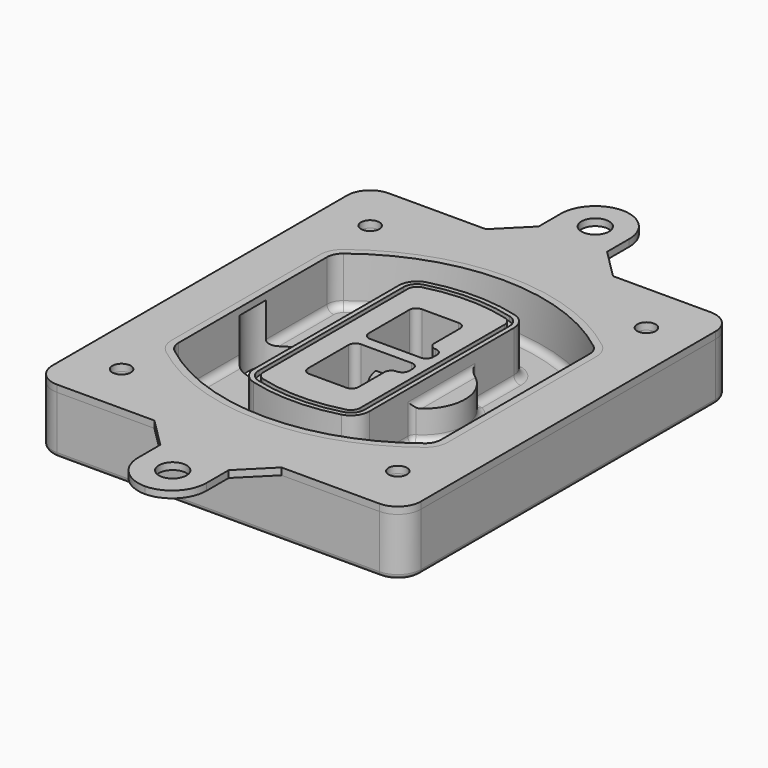
from build123d import *

# Parameters (mm, degrees)
F0_R      = 4
F1_DEPTH  = 25
F2_DEPTH  = 3
F3_DEPTH  = 18
F5_DEPTH  = 21
F6_DEPTH  = 2
F8_DEPTH  = 20
F9_DEPTH  = 16
F10_DEPTH = 25
F7_R      = 6
F7_R_2    = 4
F11_DEPTH = 6
F13_DEPTH = 9
F14_R     = 3
F15_R     = 2
F16_R     = 6
F16_R_2   = 4
F17_DEPTH = 3


with BuildPart() as f1:
    # F0 (on Top) → F1 (new body)
    with BuildSketch(Plane.XY):
        with BuildLine():
            ThreePointArc((-80, -80), (-77.0710678119, -87.0710678119), (-70, -90))
            Line((-70, -90), (70, -90))
            ThreePointArc((70, -90), (77.0710678119, -87.0710678119), (80, -80))
            Line((80, -80), (80, 80))
            ThreePointArc((80, 80), (77.0710678119, 87.0710678119), (70, 90))
            Line((70, 90), (-70, 90))
            ThreePointArc((-70, 90), (-77.0710678119, 87.0710678119), (-80, 80))
            Line((-80, 80), (-80, -80))
        make_face()
        with Locations((-60, -67.5)):
            Circle(F0_R, mode=Mode.SUBTRACT)
        with Locations((60, -67.5)):
            Circle(F0_R, mode=Mode.SUBTRACT)
        with Locations((-60, 67.5)):
            Circle(F0_R, mode=Mode.SUBTRACT)
        with BuildLine():
            ThreePointArc((-64, 40.2934422872), (-62.5820384798, 46.4328484224), (-58.6153846154, 51.3286200352))
            ThreePointArc((-58.6153846154, 51.3286200352), (0, 71.5), (58.6153846154, 51.3286200352))
            ThreePointArc((58.6153846154, 51.3286200352), (62.5820384798, 46.4328484224), (64, 40.2934422872))
            Line((64, 40.2934422872), (64, -40.2934422872))
            ThreePointArc((64, -40.2934422872), (62.5820384798, -46.4328484224), (58.6153846154, -51.3286200352))
            ThreePointArc((58.6153846154, -51.3286200352), (0, -71.5), (-58.6153846154, -51.3286200352))
            ThreePointArc((-58.6153846154, -51.3286200352), (-62.5820384798, -46.4328484224), (-64, -40.2934422872))
            Line((-64, -40.2934422872), (-64, 40.2934422872))
        make_face(mode=Mode.SUBTRACT)
        with Locations((60, 67.5)):
            Circle(F0_R, mode=Mode.SUBTRACT)
        with BuildLine():
            ThreePointArc((58.6153846154, 51.3286200352), (0, 71.5), (-58.6153846154, 51.3286200352))
            ThreePointArc((-58.6153846154, 51.3286200352), (-62.5820384798, 46.4328484224), (-64, 40.2934422872))
            Line((-64, 40.2934422872), (-64, -40.2934422872))
            ThreePointArc((-64, -40.2934422872), (-62.5820384798, -46.4328484224), (-58.6153846154, -51.3286200352))
            ThreePointArc((-58.6153846154, -51.3286200352), (0, -71.5), (58.6153846154, -51.3286200352))
            ThreePointArc((58.6153846154, -51.3286200352), (62.5820384798, -46.4328484224), (64, -40.2934422872))
            Line((64, -40.2934422872), (64, 40.2934422872))
            ThreePointArc((64, 40.2934422872), (62.5820384798, 46.4328484224), (58.6153846154, 51.3286200352))
        make_face()
        with BuildLine():
            Line((-60, -40.2934422872), (-60, 40.2934422872))
            ThreePointArc((-60, 40.2934422872), (-58.9871703427, 44.6787323838), (-56.1538461538, 48.1757121072))
            ThreePointArc((-56.1538461538, 48.1757121072), (0, 67.5), (56.1538461538, 48.1757121072))
            ThreePointArc((56.1538461538, 48.1757121072), (58.9871703427, 44.6787323838), (60, 40.2934422872))
            Line((60, 40.2934422872), (60, -40.2934422872))
            ThreePointArc((60, -40.2934422872), (58.9871703427, -44.6787323838), (56.1538461538, -48.1757121072))
            ThreePointArc((56.1538461538, -48.1757121072), (0, -67.5), (-56.1538461538, -48.1757121072))
            ThreePointArc((-56.1538461538, -48.1757121072), (-58.9871703427, -44.6787323838), (-60, -40.2934422872))
        make_face(mode=Mode.SUBTRACT)
        with BuildLine():
            ThreePointArc((-56.1538461538, 48.1757121072), (-58.9871703427, 44.6787323838), (-60, 40.2934422872))
            Line((-60, 40.2934422872), (-60, -40.2934422872))
            ThreePointArc((-60, -40.2934422872), (-58.9871703427, -44.6787323838), (-56.1538461538, -48.1757121072))
            ThreePointArc((-56.1538461538, -48.1757121072), (0, -67.5), (56.1538461538, -48.1757121072))
            ThreePointArc((56.1538461538, -48.1757121072), (58.9871703427, -44.6787323838), (60, -40.2934422872))
            Line((60, -40.2934422872), (60, 40.2934422872))
            ThreePointArc((60, 40.2934422872), (58.9871703427, 44.6787323838), (56.1538461538, 48.1757121072))
            ThreePointArc((56.1538461538, 48.1757121072), (0, 67.5), (-56.1538461538, 48.1757121072))
        make_face()
        with BuildLine():
            ThreePointArc((54.3076923077, 45.8110311612), (56.2910192399, 43.3631453548), (57, 40.2934422872))
            Line((57, 40.2934422872), (57, -40.2934422872))
            ThreePointArc((57, -40.2934422872), (56.2910192399, -43.3631453548), (54.3076923077, -45.8110311612))
            ThreePointArc((54.3076923077, -45.8110311612), (0, -64.5), (-54.3076923077, -45.8110311612))
            ThreePointArc((-54.3076923077, -45.8110311612), (-56.2910192399, -43.3631453548), (-57, -40.2934422872))
            Line((-57, -40.2934422872), (-57, 40.2934422872))
            ThreePointArc((-57, 40.2934422872), (-56.2910192399, 43.3631453548), (-54.3076923077, 45.8110311612))
            ThreePointArc((-54.3076923077, 45.8110311612), (0, 64.5), (54.3076923077, 45.8110311612))
        make_face(mode=Mode.SUBTRACT)
        with BuildLine():
            Line((57, -40.2934422872), (57, 40.2934422872))
            ThreePointArc((57, 40.2934422872), (56.2910192399, 43.3631453548), (54.3076923077, 45.8110311612))
            ThreePointArc((54.3076923077, 45.8110311612), (0, 64.5), (-54.3076923077, 45.8110311612))
            ThreePointArc((-54.3076923077, 45.8110311612), (-56.2910192399, 43.3631453548), (-57, 40.2934422872))
            Line((-57, 40.2934422872), (-57, -40.2934422872))
            ThreePointArc((-57, -40.2934422872), (-56.2910192399, -43.3631453548), (-54.3076923077, -45.8110311612))
            ThreePointArc((-54.3076923077, -45.8110311612), (0, -64.5), (54.3076923077, -45.8110311612))
            ThreePointArc((54.3076923077, -45.8110311612), (56.2910192399, -43.3631453548), (57, -40.2934422872))
        make_face()
    extrude(amount=-F1_DEPTH)

    # F0 (on Top) → F2 (join)
    with BuildSketch(Plane.XY):
        with BuildLine():
            ThreePointArc((-56.1538461538, 48.1757121072), (-58.9871703427, 44.6787323838), (-60, 40.2934422872))
            Line((-60, 40.2934422872), (-60, -40.2934422872))
            ThreePointArc((-60, -40.2934422872), (-58.9871703427, -44.6787323838), (-56.1538461538, -48.1757121072))
            ThreePointArc((-56.1538461538, -48.1757121072), (0, -67.5), (56.1538461538, -48.1757121072))
            ThreePointArc((56.1538461538, -48.1757121072), (58.9871703427, -44.6787323838), (60, -40.2934422872))
            Line((60, -40.2934422872), (60, 40.2934422872))
            ThreePointArc((60, 40.2934422872), (58.9871703427, 44.6787323838), (56.1538461538, 48.1757121072))
            ThreePointArc((56.1538461538, 48.1757121072), (0, 67.5), (-56.1538461538, 48.1757121072))
        make_face()
        with BuildLine():
            ThreePointArc((54.3076923077, 45.8110311612), (56.2910192399, 43.3631453548), (57, 40.2934422872))
            Line((57, 40.2934422872), (57, -40.2934422872))
            ThreePointArc((57, -40.2934422872), (56.2910192399, -43.3631453548), (54.3076923077, -45.8110311612))
            ThreePointArc((54.3076923077, -45.8110311612), (0, -64.5), (-54.3076923077, -45.8110311612))
            ThreePointArc((-54.3076923077, -45.8110311612), (-56.2910192399, -43.3631453548), (-57, -40.2934422872))
            Line((-57, -40.2934422872), (-57, 40.2934422872))
            ThreePointArc((-57, 40.2934422872), (-56.2910192399, 43.3631453548), (-54.3076923077, 45.8110311612))
            ThreePointArc((-54.3076923077, 45.8110311612), (0, 64.5), (54.3076923077, 45.8110311612))
        make_face(mode=Mode.SUBTRACT)
    extrude(amount=F2_DEPTH)

    # F0 (on Top) → F3 (cut)
    with BuildSketch(Plane.XY):
        with BuildLine():
            Line((57, -40.2934422872), (57, 40.2934422872))
            ThreePointArc((57, 40.2934422872), (56.2910192399, 43.3631453548), (54.3076923077, 45.8110311612))
            ThreePointArc((54.3076923077, 45.8110311612), (0, 64.5), (-54.3076923077, 45.8110311612))
            ThreePointArc((-54.3076923077, 45.8110311612), (-56.2910192399, 43.3631453548), (-57, 40.2934422872))
            Line((-57, 40.2934422872), (-57, -40.2934422872))
            ThreePointArc((-57, -40.2934422872), (-56.2910192399, -43.3631453548), (-54.3076923077, -45.8110311612))
            ThreePointArc((-54.3076923077, -45.8110311612), (0, -64.5), (54.3076923077, -45.8110311612))
            ThreePointArc((54.3076923077, -45.8110311612), (56.2910192399, -43.3631453548), (57, -40.2934422872))
        make_face()
    extrude(amount=-F3_DEPTH, mode=Mode.SUBTRACT)

    # F4 (on face) → F5 (join, through all)
    with BuildSketch(Plane.XY.offset(3)):
        with BuildLine():
            ThreePointArc((-25, -39.2465276821), (-23.3511545998, -44.1109737193), (-19.0842911877, -46.9702398883))
            ThreePointArc((-19.0842911877, -46.9702398883), (0, -49.5), (19.0842911877, -46.9702398883))
            ThreePointArc((19.0842911877, -46.9702398883), (23.3511545998, -44.1109737193), (25, -39.2465276821))
            Line((25, -39.2465276821), (25, 39.2465276821))
            ThreePointArc((25, 39.2465276821), (23.3511545998, 44.1109737193), (19.0842911877, 46.9702398883))
            ThreePointArc((19.0842911877, 46.9702398883), (0, 49.5), (-19.0842911877, 46.9702398883))
            ThreePointArc((-19.0842911877, 46.9702398883), (-23.3511545998, 44.1109737193), (-25, 39.2465276821))
            Line((-25, 39.2465276821), (-25, -39.2465276821))
        make_face()
        with BuildLine():
            ThreePointArc((18.5632183908, 45.0393118368), (21.7633659499, 42.89486221), (23, 39.2465276821))
            Line((23, 39.2465276821), (23, -39.2465276821))
            ThreePointArc((23, -39.2465276821), (21.7633659499, -42.89486221), (18.5632183908, -45.0393118368))
            ThreePointArc((18.5632183908, -45.0393118368), (0, -47.5), (-18.5632183908, -45.0393118368))
            ThreePointArc((-18.5632183908, -45.0393118368), (-21.7633659499, -42.89486221), (-23, -39.2465276821))
            Line((-23, -39.2465276821), (-23, 39.2465276821))
            ThreePointArc((-23, 39.2465276821), (-21.7633659499, 42.89486221), (-18.5632183908, 45.0393118368))
            ThreePointArc((-18.5632183908, 45.0393118368), (0, 47.5), (18.5632183908, 45.0393118368))
        make_face(mode=Mode.SUBTRACT)
        with BuildLine():
            Line((23, -39.2465276821), (23, 39.2465276821))
            ThreePointArc((23, 39.2465276821), (21.7633659499, 42.89486221), (18.5632183908, 45.0393118368))
            ThreePointArc((18.5632183908, 45.0393118368), (0, 47.5), (-18.5632183908, 45.0393118368))
            ThreePointArc((-18.5632183908, 45.0393118368), (-21.7633659499, 42.89486221), (-23, 39.2465276821))
            Line((-23, 39.2465276821), (-23, -39.2465276821))
            ThreePointArc((-23, -39.2465276821), (-21.7633659499, -42.89486221), (-18.5632183908, -45.0393118368))
            ThreePointArc((-18.5632183908, -45.0393118368), (0, -47.5), (18.5632183908, -45.0393118368))
            ThreePointArc((18.5632183908, -45.0393118368), (21.7633659499, -42.89486221), (23, -39.2465276821))
        make_face()
        with BuildLine():
            ThreePointArc((18.0421455939, 43.1083837852), (20.1755772999, 41.6787507007), (21, 39.2465276821))
            Line((21, 39.2465276821), (21, -39.2465276821))
            ThreePointArc((21, -39.2465276821), (20.1755772999, -41.6787507007), (18.0421455939, -43.1083837852))
            ThreePointArc((18.0421455939, -43.1083837852), (0, -45.5), (-18.0421455939, -43.1083837852))
            ThreePointArc((-18.0421455939, -43.1083837852), (-20.1755772999, -41.6787507007), (-21, -39.2465276821))
            Line((-21, -39.2465276821), (-21, 39.2465276821))
            ThreePointArc((-21, 39.2465276821), (-20.1755772999, 41.6787507007), (-18.0421455939, 43.1083837852))
            ThreePointArc((-18.0421455939, 43.1083837852), (0, 45.5), (18.0421455939, 43.1083837852))
        make_face(mode=Mode.SUBTRACT)
        with BuildLine():
            Line((21, -39.2465276821), (21, 39.2465276821))
            ThreePointArc((21, 39.2465276821), (20.1755772999, 41.6787507007), (18.0421455939, 43.1083837852))
            ThreePointArc((18.0421455939, 43.1083837852), (0, 45.5), (-18.0421455939, 43.1083837852))
            ThreePointArc((-18.0421455939, 43.1083837852), (-20.1755772999, 41.6787507007), (-21, 39.2465276821))
            Line((-21, 39.2465276821), (-21, -39.2465276821))
            ThreePointArc((-21, -39.2465276821), (-20.1755772999, -41.6787507007), (-18.0421455939, -43.1083837852))
            ThreePointArc((-18.0421455939, -43.1083837852), (0, -45.5), (18.0421455939, -43.1083837852))
            ThreePointArc((18.0421455939, -43.1083837852), (20.1755772999, -41.6787507007), (21, -39.2465276821))
        make_face()
        with BuildLine():
            Line((-8, -2.5), (14, -2.5))
            ThreePointArc((14, -2.5), (16.1213203436, -3.3786796564), (17, -5.5))
            Line((17, -5.5), (17, -7.5))
            ThreePointArc((17, -7.5), (16.1213203436, -9.6213203436), (14, -10.5))
            ThreePointArc((14, -10.5), (11.8786796564, -11.3786796564), (11, -13.5))
            Line((11, -13.5), (11, -27.5))
            ThreePointArc((11, -27.5), (10.1213203436, -29.6213203436), (8, -30.5))
            Line((8, -30.5), (-8, -30.5))
            ThreePointArc((-8, -30.5), (-10.1213203436, -29.6213203436), (-11, -27.5))
            Line((-11, -27.5), (-11, -5.5))
            ThreePointArc((-11, -5.5), (-10.1213203436, -3.3786796564), (-8, -2.5))
        make_face(mode=Mode.SUBTRACT)
        with BuildLine():
            ThreePointArc((-8, 2.5), (-10.1213203436, 3.3786796564), (-11, 5.5))
            Line((-11, 5.5), (-11, 27.5))
            ThreePointArc((-11, 27.5), (-10.1213203436, 29.6213203436), (-8, 30.5))
            Line((-8, 30.5), (8, 30.5))
            ThreePointArc((8, 30.5), (10.1213203436, 29.6213203436), (11, 27.5))
            Line((11, 27.5), (11, 13.5))
            ThreePointArc((11, 13.5), (11.8786796564, 11.3786796564), (14, 10.5))
            ThreePointArc((14, 10.5), (16.1213203436, 9.6213203436), (17, 7.5))
            Line((17, 7.5), (17, 5.5))
            ThreePointArc((17, 5.5), (16.1213203436, 3.3786796564), (14, 2.5))
            Line((14, 2.5), (-8, 2.5))
        make_face(mode=Mode.SUBTRACT)
    extrude(amount=-F5_DEPTH)

    # F4 (on face) → F6 (cut)
    with BuildSketch(Plane.XY.offset(3)):
        with BuildLine():
            Line((23, -39.2465276821), (23, 39.2465276821))
            ThreePointArc((23, 39.2465276821), (21.7633659499, 42.89486221), (18.5632183908, 45.0393118368))
            ThreePointArc((18.5632183908, 45.0393118368), (0, 47.5), (-18.5632183908, 45.0393118368))
            ThreePointArc((-18.5632183908, 45.0393118368), (-21.7633659499, 42.89486221), (-23, 39.2465276821))
            Line((-23, 39.2465276821), (-23, -39.2465276821))
            ThreePointArc((-23, -39.2465276821), (-21.7633659499, -42.89486221), (-18.5632183908, -45.0393118368))
            ThreePointArc((-18.5632183908, -45.0393118368), (0, -47.5), (18.5632183908, -45.0393118368))
            ThreePointArc((18.5632183908, -45.0393118368), (21.7633659499, -42.89486221), (23, -39.2465276821))
        make_face()
        with BuildLine():
            ThreePointArc((18.0421455939, 43.1083837852), (20.1755772999, 41.6787507007), (21, 39.2465276821))
            Line((21, 39.2465276821), (21, -39.2465276821))
            ThreePointArc((21, -39.2465276821), (20.1755772999, -41.6787507007), (18.0421455939, -43.1083837852))
            ThreePointArc((18.0421455939, -43.1083837852), (0, -45.5), (-18.0421455939, -43.1083837852))
            ThreePointArc((-18.0421455939, -43.1083837852), (-20.1755772999, -41.6787507007), (-21, -39.2465276821))
            Line((-21, -39.2465276821), (-21, 39.2465276821))
            ThreePointArc((-21, 39.2465276821), (-20.1755772999, 41.6787507007), (-18.0421455939, 43.1083837852))
            ThreePointArc((-18.0421455939, 43.1083837852), (0, 45.5), (18.0421455939, 43.1083837852))
        make_face(mode=Mode.SUBTRACT)
    extrude(amount=-F6_DEPTH, mode=Mode.SUBTRACT)

    # F7 (on face) → F8 (join)
    with BuildSketch(Plane(origin=(0, 0, -25), x_dir=(1, 0, 0), z_dir=(0, 0, -1))):
        with BuildLine():
            ThreePointArc((3.28842436, 0), (16.7567035675, 13.4682792075), (30.224982775, 0))
            Line((30.224982775, 0), (35.224982775, 0))
            ThreePointArc((35.224982775, 0), (16.7567035675, 18.4682792075), (-1.71157564, 0))
            Line((-1.71157564, 0), (3.28842436, 0))
        make_face()
        with BuildLine():
            Line((3.28842436, 0), (30.224982775, 0))
            ThreePointArc((30.224982775, 0), (16.7567035675, 13.4682792075), (3.28842436, 0))
        make_face()
        with BuildLine():
            ThreePointArc((3.28842436, 0), (16.7567035675, -13.4682792075), (30.224982775, 0))
            Line((30.224982775, 0), (3.28842436, 0))
        make_face()
        with BuildLine():
            Line((35.224982775, 0), (30.224982775, 0))
            ThreePointArc((30.224982775, 0), (16.7567035675, -13.4682792075), (3.28842436, 0))
            Line((3.28842436, 0), (-1.71157564, 0))
            ThreePointArc((-1.71157564, 0), (16.7567035675, -18.4682792075), (35.224982775, 0))
        make_face()
    extrude(amount=-F8_DEPTH)

    # F7 (on face) → F9 (cut)
    with BuildSketch(Plane(origin=(0, 0, -25), x_dir=(1, 0, 0), z_dir=(0, 0, -1))):
        with BuildLine():
            Line((3.28842436, 0), (30.224982775, 0))
            ThreePointArc((30.224982775, 0), (16.7567035675, 13.4682792075), (3.28842436, 0))
        make_face()
        with BuildLine():
            ThreePointArc((3.28842436, 0), (16.7567035675, -13.4682792075), (30.224982775, 0))
            Line((30.224982775, 0), (3.28842436, 0))
        make_face()
    extrude(amount=-F9_DEPTH, mode=Mode.SUBTRACT)

    # F7 (on face) → F10 (cut)
    with BuildSketch(Plane(origin=(0, 0, -25), x_dir=(1, 0, 0), z_dir=(0, 0, -1))):
        with BuildLine():
            Line((-59.0318229325, 0), (-32.0952645175, 0))
            ThreePointArc((-32.0952645175, 0), (-45.563543725, 13.4682792075), (-59.0318229325, 0))
        make_face()
        with BuildLine():
            ThreePointArc((-59.0318229325, 0), (-45.563543725, -13.4682792075), (-32.0952645175, 0))
            Line((-32.0952645175, 0), (-59.0318229325, 0))
        make_face()
    extrude(amount=-F10_DEPTH, mode=Mode.SUBTRACT)

    # F7 (on face) → F11 (cut)
    with BuildSketch(Plane(origin=(0, 0, -25), x_dir=(1, 0, 0), z_dir=(0, 0, -1))):
        with Locations((60, -67.5)):
            Circle(F7_R)
        with Locations((60, -67.5)):
            Circle(F7_R_2, mode=Mode.SUBTRACT)
        with Locations((60, -67.5)):
            Circle(F7_R)
        with Locations((60, -67.5)):
            Circle(F7_R_2, mode=Mode.SUBTRACT)
        with Locations((-60, -67.5)):
            Circle(F7_R)
        with Locations((-60, -67.5)):
            Circle(F7_R_2, mode=Mode.SUBTRACT)
        with Locations((-60, -67.5)):
            Circle(F7_R)
        with Locations((-60, -67.5)):
            Circle(F7_R_2, mode=Mode.SUBTRACT)
        with Locations((-60, 67.5)):
            Circle(F7_R)
        with Locations((-60, 67.5)):
            Circle(F7_R_2, mode=Mode.SUBTRACT)
        with Locations((-60, 67.5)):
            Circle(F7_R)
        with Locations((-60, 67.5)):
            Circle(F7_R_2, mode=Mode.SUBTRACT)
        with Locations((60, 67.5)):
            Circle(F7_R)
        with Locations((60, 67.5)):
            Circle(F7_R_2, mode=Mode.SUBTRACT)
        with Locations((60, 67.5)):
            Circle(F7_R)
        with Locations((60, 67.5)):
            Circle(F7_R_2, mode=Mode.SUBTRACT)
    extrude(amount=-F11_DEPTH, mode=Mode.SUBTRACT)

    # F12 (on face) → F13 (cut, through all)
    with BuildSketch(Plane(origin=(0, 0, -9), x_dir=(1, 0, 0), z_dir=(0, 0, -1))):
        with BuildLine():
            Line((11, 13.5), (11, 17.5481537753))
            ThreePointArc((11, 17.5481537753), (2.5696536419, 11.8239143813), (-1.5415842455, 2.5))
            Line((-1.5415842455, 2.5), (3.5224848595, 2.5))
            ThreePointArc((3.5224848595, 2.5), (6.1857188154, 8.3455872281), (11.2536447004, 12.2927168648))
            ThreePointArc((11.2536447004, 12.2927168648), (11.0640958889, 12.8831798879), (11, 13.5))
        make_face()
        with BuildLine():
            ThreePointArc((11.2536447004, -12.2927168648), (6.1857188154, -8.3455872281), (3.5224848595, -2.5))
            Line((3.5224848595, -2.5), (-1.5415842455, -2.5))
            ThreePointArc((-1.5415842455, -2.5), (2.5696536419, -11.8239143813), (11, -17.5481537753))
            Line((11, -17.5481537753), (11, -13.5))
            ThreePointArc((11, -13.5), (11.0640958889, -12.8831798879), (11.2536447004, -12.2927168648))
        make_face()
        with BuildLine():
            ThreePointArc((11.2536447004, 12.2927168648), (6.1857188154, 8.3455872281), (3.5224848595, 2.5))
            Line((3.5224848595, 2.5), (14, 2.5))
            ThreePointArc((14, 2.5), (16.1213203436, 3.3786796564), (17, 5.5))
            Line((17, 5.5), (17, 7.5))
            ThreePointArc((17, 7.5), (16.1213203436, 9.6213203436), (14, 10.5))
            ThreePointArc((14, 10.5), (12.3601599782, 10.9878446101), (11.2536447004, 12.2927168648))
        make_face()
        with BuildLine():
            Line((14, -2.5), (3.5224848595, -2.5))
            ThreePointArc((3.5224848595, -2.5), (6.1857188154, -8.3455872281), (11.2536447004, -12.2927168648))
            ThreePointArc((11.2536447004, -12.2927168648), (12.3601599782, -10.9878446101), (14, -10.5))
            ThreePointArc((14, -10.5), (16.1213203436, -9.6213203436), (17, -7.5))
            Line((17, -7.5), (17, -5.5))
            ThreePointArc((17, -5.5), (16.1213203436, -3.3786796564), (14, -2.5))
        make_face()
    extrude(amount=F13_DEPTH, mode=Mode.SUBTRACT)

    # F14
    f14_edges = [f1.edges().sort_by_distance(p)[0] for p in [
        (-57, -23.703476, -18),
        (-57, 23.703476, -18),
        (25, 0, -5),
        (25, 16.526506, -11.5),
        (25, -16.526506, -11.5),
        (25, -27.886517, -18),
        (35.224983, 0, -18),
    ]]
    fillet(f14_edges, radius=F14_R)

    # F15
    f15_edges = [f1.edges().sort_by_distance(p)[0] for p in [
        (0, -90, -25),
    ]]
    fillet(f15_edges, radius=F15_R)


with BuildPart() as f17:
    # F16 (on face) → F17 (new body, through all)
    with BuildSketch(Plane.XY):
        with BuildLine():
            Line((-27.7254773313, 90), (27.4571159953, 90))
            Line((27.4571159953, 90), (14.729193934, 102.7279220614))
            Line((14.729193934, 102.7279220614), (14.729193934, 114.7279220614))
            ThreePointArc((14.729193934, 114.7279220614), (10.4311117759, 125.2383432948), (0, 129.7254773313))
            ThreePointArc((0, 129.7254773313), (-10.6048730326, 125.3327950939), (-14.9975552699, 114.7279220614))
            Line((-14.9975552699, 114.7279220614), (-14.9975552699, 102.7279220614))
            Line((-14.9975552699, 102.7279220614), (-27.7254773313, 90))
        make_face()
        with Locations((0, 114.7279220614)):
            Circle(F16_R, mode=Mode.SUBTRACT)
        with BuildLine():
            Line((70, 90), (27.4571159953, 90))
            Line((27.4571159953, 90), (-27.7254773313, 90))
            Line((-27.7254773313, 90), (-70, 90))
            ThreePointArc((-70, 90), (-77.0710678119, 87.0710678119), (-80, 80))
            Line((-80, 80), (-80, -80))
            ThreePointArc((-80, -80), (-77.0710678119, -87.0710678119), (-70, -90))
            Line((-70, -90), (-27.7254773313, -90))
            Line((-27.7254773313, -90), (27.4571159953, -90))
            Line((27.4571159953, -90), (70, -90))
            ThreePointArc((70, -90), (77.0710678119, -87.0710678119), (80, -80))
            Line((80, -80), (80, 80))
            ThreePointArc((80, 80), (77.0710678119, 87.0710678119), (70, 90))
        make_face()
        with Locations((-60, -67.5)):
            Circle(F16_R_2, mode=Mode.SUBTRACT)
        with Locations((60, -67.5)):
            Circle(F16_R_2, mode=Mode.SUBTRACT)
        with Locations((-60, 67.5)):
            Circle(F16_R_2, mode=Mode.SUBTRACT)
        with BuildLine():
            ThreePointArc((-60, 40.2934422872), (-58.9871703427, 44.6787323838), (-56.1538461538, 48.1757121072))
            ThreePointArc((-56.1538461538, 48.1757121072), (0, 67.5), (56.1538461538, 48.1757121072))
            ThreePointArc((56.1538461538, 48.1757121072), (58.9871703427, 44.6787323838), (60, 40.2934422872))
            Line((60, 40.2934422872), (60, -40.2934422872))
            ThreePointArc((60, -40.2934422872), (58.9871703427, -44.6787323838), (56.1538461538, -48.1757121072))
            ThreePointArc((56.1538461538, -48.1757121072), (0, -67.5), (-56.1538461538, -48.1757121072))
            ThreePointArc((-56.1538461538, -48.1757121072), (-58.9871703427, -44.6787323838), (-60, -40.2934422872))
            Line((-60, -40.2934422872), (-60, 40.2934422872))
        make_face(mode=Mode.SUBTRACT)
        with Locations((60, 67.5)):
            Circle(F16_R_2, mode=Mode.SUBTRACT)
        with BuildLine():
            Line((14.729193934, -102.7279220614), (27.4571159953, -90))
            Line((27.4571159953, -90), (-27.7254773313, -90))
            Line((-27.7254773313, -90), (-14.9975552699, -102.7279220614))
            Line((-14.9975552699, -102.7279220614), (-14.9975552699, -114.7279220614))
            ThreePointArc((-14.9975552699, -114.7279220614), (-10.6048730326, -125.3327950939), (0, -129.7254773313))
            ThreePointArc((0, -129.7254773313), (10.4311117759, -125.2383432948), (14.729193934, -114.7279220614))
            Line((14.729193934, -114.7279220614), (14.729193934, -102.7279220614))
        make_face()
        with Locations((0, -114.7279220614)):
            Circle(F16_R, mode=Mode.SUBTRACT)
    extrude(amount=F17_DEPTH)


solid = Compound([f1.part, f17.part])
